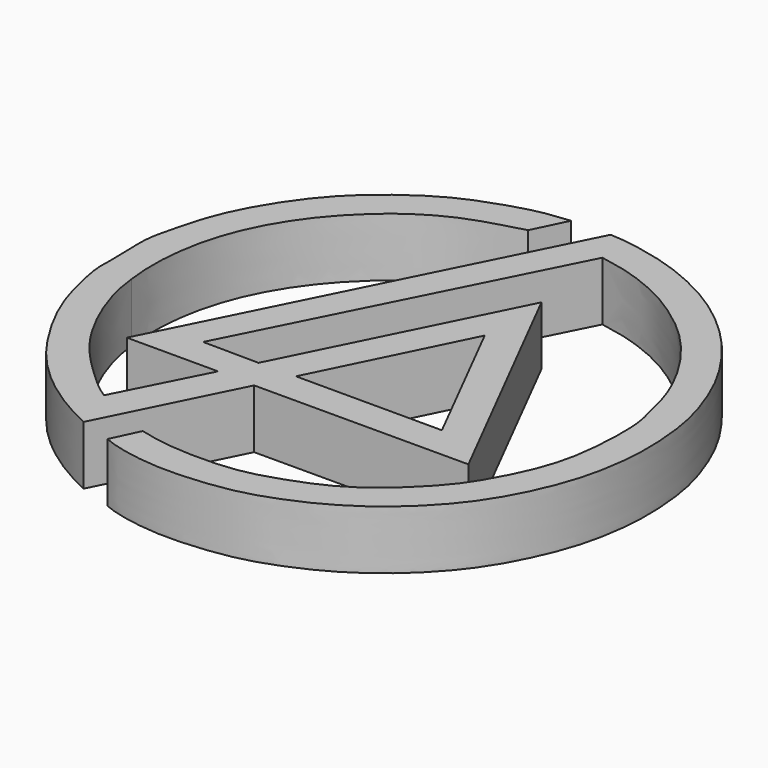
from build123d import *

# Parameters (mm, degrees)
F1_DEPTH = 10


with BuildPart() as f1:
    # F0 (on Top) → F1 (new body)
    with BuildSketch(Plane.XY):
        with BuildLine():
            Line((31.5047055483, 9.1594792902), (42.6273755729, 31.5177962184))
            Line((42.6273755729, 31.5177962184), (79.0387168527, 31.5679199994))
            Line((79.0387168527, 31.5679199994), (57.5080774724, 74.0134641528))
            Line((57.5080774724, 74.0134641528), (39.031188935, 36.9483083487))
            Line((39.031188935, 36.9483083487), (29.5399427414, 37.0458327234))
            Line((29.5399427414, 37.0458327234), (55.8028705418, 89.1040340066))
            add(Edge.make_bspline(
                [(55.8028705418, 89.1040340066), (57.1325498643, 88.861291091), (59.8763085434, 88.3603974016), (64.2908666074, 86.9335728477), (69.1310740623, 84.688490071), (73.2622173751, 81.8571210078), (76.4824146383, 79.3442563689), (80.1989823415, 75.5723630582), (84.1273916362, 70.0730853985), (87.1364877845, 63.8146732461), (88.4253032089, 58.3237133005), (89.4291557525, 54.4403115499), (89.2673703109, 47.0420451111), (88.4829827257, 41.0910143553), (86.8157332126, 35.8658283598), (84.053674254, 30.3265300974), (81.1600380201, 25.7662245007), (76.9924260253, 21.4819918761), (73.3518162515, 18.2278649051), (68.3440775943, 15.020648797), (63.074000875, 13.0006143603), (57.7082788854, 11.2181197775), (51.5764977905, 10.5680332065), (43.857508336, 10.8710577733), (40.6764412141, 11.683196811), (39.2859615386, 12.0381917804)],
                knots=[0, 0, 0, 0, 0.0373622353, 0.0770960003, 0.1199493355, 0.1611090138, 0.1981754249, 0.2402512127, 0.2885184469, 0.3375684736, 0.380659685, 0.4176606202, 0.4674074576, 0.5131656701, 0.556128445, 0.6017966882, 0.6450246909, 0.6896777809, 0.7307077668, 0.7753441668, 0.8193513361, 0.8627646491, 0.9090235079, 0.9602331676, 1, 1, 1, 1], degree=3))
            add(Edge.make_bspline(
                [(39.2859615386, 12.0381917804), (38.5432640711, 10.4583009767), (37.8005666037, 8.878410173), (37.0578691363, 7.2985193692)],
                knots=[0, 0, 0, 0, 5.2372598101, 5.2372598101, 5.2372598101, 5.2372598101], degree=3))
            add(Edge.make_bspline(
                [(37.0578691363, 7.2985193692), (37.7736068415, 7.0087838959), (39.5614843023, 6.2850389842), (45.4192398738, 5.1870648147), (51.7067634803, 5.1292214452), (59.2989734397, 6.0024112914), (64.6541839275, 7.6610846204), (70.1708829867, 10.0038455456), (75.3987115394, 13.0645089252), (80.9979178231, 17.5393312219), (85.8263945664, 22.9163009787), (89.1420380554, 28.1898111873), (91.8332825675, 33.9300222181), (93.8632683276, 40.1624980505), (94.9002590468, 47.9780614879), (94.6094466554, 54.841668337), (93.592560649, 61.6289493691), (90.4770688571, 69.6959966816), (87.5534857387, 74.5918834506), (84.4519539642, 78.8742696957), (80.5325527, 83.099025003), (74.7426992175, 87.7997552791), (68.6751419217, 90.9826591659), (63.937317253, 92.8513266228), (59.44286166, 94.0416012929), (54.8805750898, 94.8246772893), (53.2201487569, 94.9078958178), (52.5344088674, 94.9422642589)],
                knots=[0, 0, 0, 0, 0.0263549764, 0.0658334302, 0.1079421583, 0.1529710536, 0.1919770104, 0.2316499189, 0.2720547881, 0.3159940618, 0.3600981353, 0.4009669951, 0.4419001555, 0.4840088773, 0.5299531712, 0.5727865245, 0.6159303492, 0.6639922259, 0.7033103014, 0.7403781104, 0.7797317606, 0.8246984946, 0.8677606389, 0.9045097983, 0.9401774989, 0.9752938902, 1, 1, 1, 1], degree=3))
            Line((52.5344088674, 94.9422642589), (20.848620683, 31.6798947752))
            Line((20.848620683, 31.6798947752), (36.3698217231, 31.6798947752))
            Line((36.3698217231, 31.6798947752), (28.8385841995, 16.8520566076))
            add(Edge.make_bspline(
                [(28.8385841995, 16.8520566076), (27.3981636462, 17.6979089481), (24.6149272456, 20.2091781338), (18.6282957076, 25.863889791), (13.7377061563, 33.8304860839), (11.2155965148, 41.188880315), (10.8029283583, 45.2736467123)],
                knots=[0, 0, 0, 0, 0.197282993, 0.4414700076, 0.7045022183, 1, 1, 1, 1], degree=3))
            add(Edge.make_bspline(
                [(10.8029283583, 45.2736467123), (10.6594461675, 46.5534307384), (10.362224862, 49.3934887584), (10.6252369913, 55.4431976297), (12.1495835889, 62.3764905578), (15.0587168211, 69.0585857086), (19.7316138259, 75.8336112584), (25.9152123304, 81.7406650314), (31.2754270007, 85.0799131948), (35.7620593208, 87.0886168861), (40.5095549554, 88.3857627243), (43.1621409953, 89.1105234623)],
                knots=[0, 0, 0, 0, 0.087118347, 0.1932945373, 0.3089103964, 0.4254535694, 0.5499719797, 0.6770866105, 0.7844871134, 0.8795844897, 1, 1, 1, 1], degree=3))
            add(Edge.make_bspline(
                [(43.1621409953, 89.1105234623), (44.079631567, 91.004319489), (44.9971221387, 92.8981155157), (45.9146127105, 94.7919115424)],
                knots=[0, 0, 0, 0, 6.3130239236, 6.3130239236, 6.3130239236, 6.3130239236], degree=3))
            add(Edge.make_bspline(
                [(45.9146127105, 94.7919115424), (44.5463991671, 94.6620688478), (41.7321555872, 94.3949987179), (37.3894344894, 93.2766622871), (31.6332390317, 91.2626635302), (27.55829327, 89.1838695887), (23.4101568025, 86.4427080414), (18.0702164428, 82.1553506992), (13.2883882124, 76.3890394389), (9.4691690636, 70.0164519178), (7.246420984, 64.5936220455), (5.8928239974, 58.9524017197), (4.9253461455, 55.1158223749), (5.4588904553, 48.7163084418), (5.0178244188, 44.8749253566), (6.4549855341, 38.7706688685), (7.8143224249, 34.0905768778), (9.7234519393, 30.1367733744), (10.8029283583, 28.2385256141)],
                knots=[0, 0, 0, 0, 0.0539768804, 0.1106456883, 0.1761486253, 0.2330162871, 0.2916439536, 0.3610308746, 0.4343773414, 0.5065780411, 0.5714206726, 0.6342675406, 0.6879895844, 0.7538638033, 0.8074135664, 0.8723772854, 0.9322143525, 1, 1, 1, 1], degree=3))
            add(Edge.make_bspline(
                [(10.8029283583, 28.2385256141), (12.0536878911, 26.1363230921), (14.6593722135, 21.7568432553), (20.6984291668, 15.5243521845), (27.2861640875, 11.1885870274), (30.2322608868, 9.7715219433), (31.5047055483, 9.1594792902)],
                knots=[0, 0, 0, 0, 0.2572367036, 0.5358964919, 0.7995496851, 1, 1, 1, 1], degree=3))
        make_face()
        Polygon((45.3390926123, 37.0261594653), (57.585965842, 61.8581846356), (70.1635852456, 37.0261594653), align=None, mode=Mode.SUBTRACT)
    extrude(amount=F1_DEPTH)


solid = f1.part
